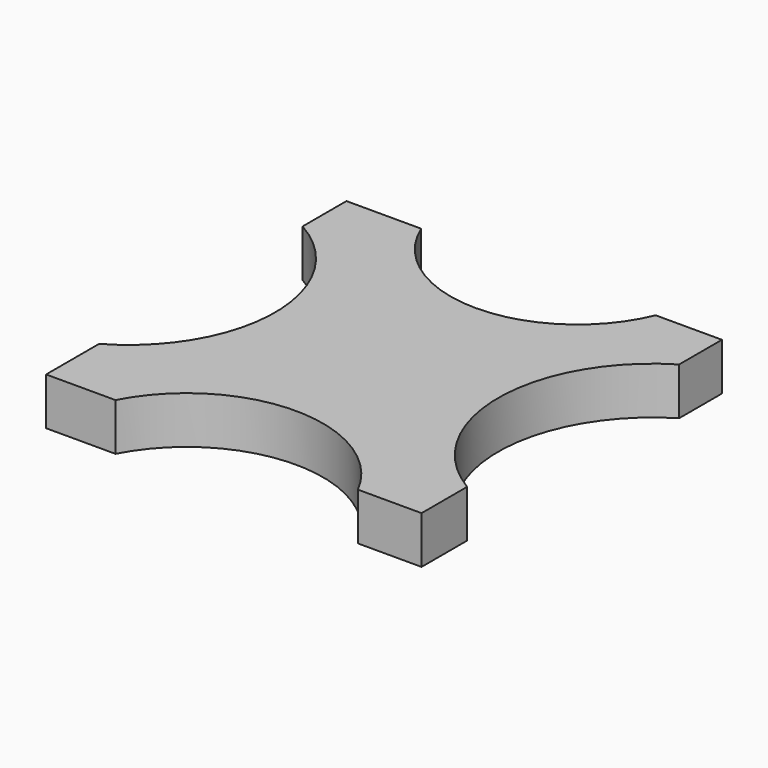
from build123d import *

# Parameters (mm, degrees)
F0_R     = 11.2
F1_DEPTH = 7


with BuildPart() as f1:
    # F0 (on Top) → F1 (new body)
    with BuildSketch(Plane.XY):
        with BuildLine():
            Line((-16.931347549, 28.3013891727), (-27.9702630192, 28.3013891727))
            Line((-27.9702630192, 28.3013891727), (-27.9702630192, 20.2004332095))
            ThreePointArc((-27.9702630192, 20.2004332095), (-17.0081993293, 1.3975063339), (-27.9702630192, -17.4054205418))
            Line((-27.9702630192, -17.4054205418), (-27.9702630192, -27.1986108273))
            Line((-27.9702630192, -27.1986108273), (-17.7148021758, -27.1986108273))
            ThreePointArc((-17.7148021758, -27.1986108273), (0.2067359164, -16.2933707346), (18.1282740086, -27.1986108273))
            Line((18.1282740086, -27.1986108273), (27.5297369808, -27.1986108273))
            Line((27.5297369808, -27.1986108273), (27.5297369808, -18.77646707))
            ThreePointArc((27.5297369808, -18.77646707), (16.4443097579, 0.8099144325), (27.5297369808, 20.3962959349))
            Line((27.5297369808, 20.3962959349), (27.5297369808, 28.3013891727))
            Line((27.5297369808, 28.3013891727), (17.7365466952, 28.3013891727))
            ThreePointArc((17.7365466952, 28.3013891727), (0.4025995731, 16.7351248548), (-16.931347549, 28.3013891727))
        make_face()
        Circle(F0_R, mode=Mode.SUBTRACT)
        Circle(F0_R)
    extrude(amount=F1_DEPTH)


solid = f1.part
